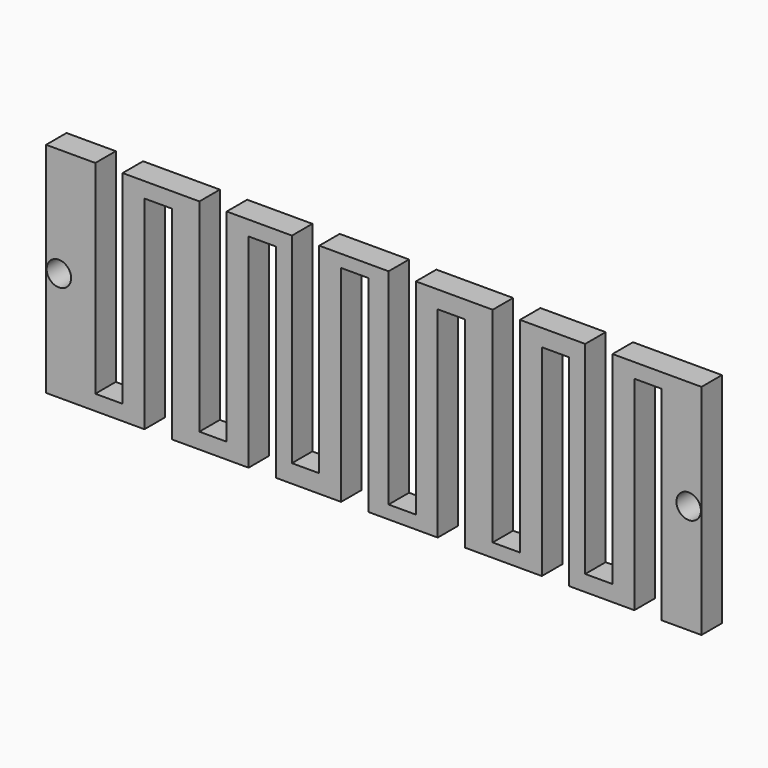
from build123d import *

# Parameters (mm, degrees)
F0_R     = 1.4224
F1_DEPTH = 2.9718


with BuildPart() as f1:
    # F0 (on Front) → F1 (new body)
    with BuildSketch(Plane.XZ):
        Polygon((-4.628503, 0), (0, 0), (0, 25.4), (-10.343503, 25.4), (-10.343503, 1.853404), (-13.518503, 1.853404), (-13.518503, 25.4), (-21.101225, 25.4), (-21.101225, 1.580213), (-24.276225, 1.580213), (-24.276225, 25.4), (-33.204594, 25.4), (-33.204594, 1.526664), (-36.379594, 1.526664), (-36.379594, 25.4), (-44.440562, 25.4), (-44.440562, 2.10474), (-47.615562, 2.10474), (-47.615562, 25.4), (-55.198284, 25.4), (-55.198284, 1.831549), (-58.373284, 1.831549), (-58.373284, 25.4), (-67.301652, 25.4), (-67.301652, 1.778), (-70.476652, 1.778), (-70.476652, 25.4), (-76.2, 25.4), (-76.2, 0), (-64.761652, 0), (-64.761652, 23.622), (-61.586652, 23.622), (-61.586652, 0), (-52.658284, 0), (-52.658284, 23.675549), (-49.483284, 23.675549), (-49.483284, 0), (-41.900562, 0), (-41.900562, 23.94874), (-38.725562, 23.94874), (-38.725562, 0), (-30.664594, 0), (-30.664594, 23.370664), (-27.489594, 23.370664), (-27.489594, 0), (-18.561225, 0), (-18.561225, 23.424213), (-15.386225, 23.424213), (-15.386225, 0), (-7.803503, 0), (-7.803503, 23.697404), (-4.628503, 23.697404), align=None)
        with Locations((-74.7141, 12.7)):
            Circle(F0_R, mode=Mode.SUBTRACT)
        with Locations((-1.4859, 12.7)):
            Circle(F0_R, mode=Mode.SUBTRACT)
    extrude(amount=F1_DEPTH)


solid = f1.part
